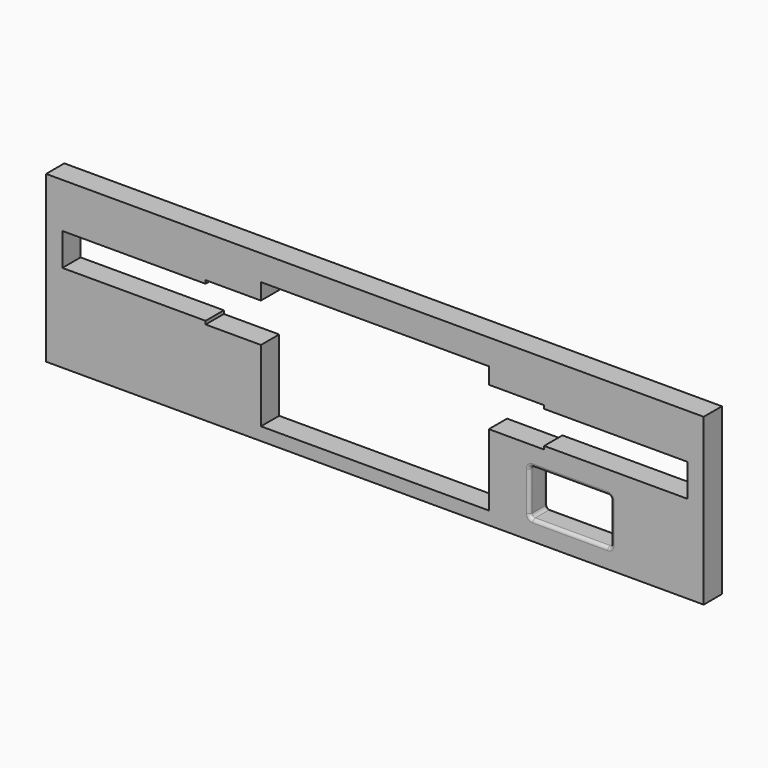
from build123d import *

# Parameters (mm, degrees)
SKETCH_W          = 101
SKETCH_H          = 25.4
PAD_DEPTH         = 3.5
SKETCH001_W       = 12.5
SKETCH001_H       = 7
POCKET_DEPTH      = 3.501
POCKET_DEPTH_BACK = 0.001
FILLET_R          = 0.5


with BuildPart() as part:
    # Sketch → Pad (new body)
    with BuildSketch(Plane.XZ):
        Rectangle(SKETCH_W, SKETCH_H)
    extrude(amount=PAD_DEPTH)

    # Sketch001 (on DatumPlane) → Pocket (cut, two sides)
    with BuildSketch(Plane.XZ.offset(3.5)) as pocket_sk:
        Polygon((-48, 5.8), (-48, 0.8), (-26, 0.8), (-26, 0.3), (-17.5, 0.3), (-17.5, -10.7), (17.5, -10.7), (17.5, 0.3), (26, 0.3), (26, 0.8), (48, 0.8), (48, 5.8), (26, 5.8), (26, 6.3), (17.5, 6.3), (17.5, 8.8), (-17.5, 8.8), (-17.5, 6.3), (-26, 6.3), (-26, 5.8), align=None)
        with Locations((30, -6.2)):
            Rectangle(SKETCH001_W, SKETCH001_H)
    extrude(amount=-POCKET_DEPTH, mode=Mode.SUBTRACT)
    extrude(pocket_sk.sketch, amount=POCKET_DEPTH_BACK, mode=Mode.SUBTRACT)

    # Fillet
    fillet_edges = [part.edges().sort_by_distance(p)[0] for p in [
        (23.75, -3.5, -6.2),
        (23.75, -1.75, -9.7),
        (23.75, 0, -6.2),
        (23.75, -1.75, -2.7),
        (30, -3.5, -9.7),
        (36.25, -1.75, -9.7),
        (30, 0, -9.7),
        (30, -3.5, -2.7),
        (30, 0, -2.7),
        (36.25, -1.75, -2.7),
        (36.25, -3.5, -6.2),
        (36.25, 0, -6.2),
    ]]
    fillet(fillet_edges, radius=FILLET_R)


solid = part.part
